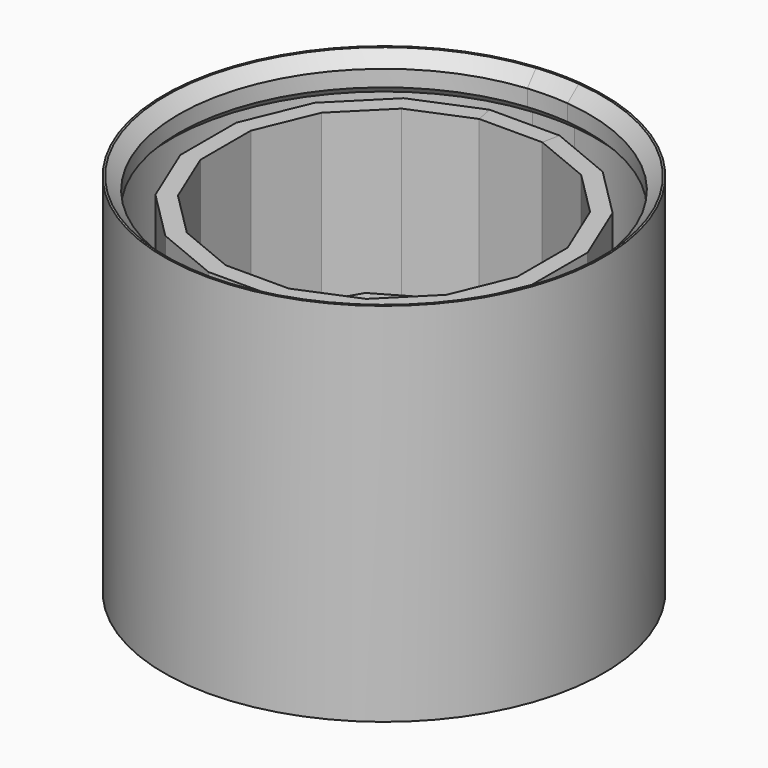
from build123d import *

# Parameters (mm, degrees)
F1_DEPTH  = 381
F2_DEPTH  = 381
F3_W      = 113.4495702038
F3_H      = 429.2523376644
F5_SIZE   = 13
F5_2_SIZE = 13
F7_DEPTH  = 355.6
F8_DEPTH  = 355.6
F10_DEPTH = 203.2
F11_DEPTH = 203.2


with BuildPart() as f1:
    # F0 (on Top) → F1 (new body)
    with BuildSketch(Plane.XY):
        Polygon((20.4468153369, 207.6), (23.2045746309, 235.6), (-23.2045746309, 235.6), (-20.4468153369, 207.6), align=None)
    extrude(amount=F1_DEPTH)


with BuildPart() as f2:
    # F0 (on Top) → F2 (new body, through all)
    with BuildSketch(Plane.XY):
        Polygon((235.6, 23.2045746309), (226.546024126, 68.7219851031), (208.7860115933, 111.5984482274), (183.0024697236, 150.1862455715), (150.1862455715, 183.0024697236), (111.5984482274, 208.7860115933), (68.7219851031, 226.546024126), (23.2045746309, 235.6), (20.4468153369, 207.6), (60.5546863641, 199.6220484234), (98.3354747538, 183.9727334753), (132.3372859959, 161.2534495528), (161.2534495528, 132.3372859959), (183.9727334753, 98.3354747538), (199.6220484234, 60.5546863641), (207.6, 20.4468153369), (207.6, -20.4468153369), (199.6220484234, -60.5546863641), (183.9727334753, -98.3354747538), (161.2534495528, -132.3372859959), (132.3372859959, -161.2534495528), (98.3354747538, -183.9727334753), (60.5546863641, -199.6220484234), (20.4468153369, -207.6), (-20.4468153369, -207.6), (-60.5546863641, -199.6220484234), (-98.3354747538, -183.9727334753), (-132.3372859959, -161.2534495528), (-161.2534495528, -132.3372859959), (-183.9727334753, -98.3354747538), (-199.6220484234, -60.5546863641), (-207.6, -20.4468153369), (-207.6, 20.4468153369), (-199.6220484234, 60.5546863641), (-183.9727334753, 98.3354747538), (-161.2534495528, 132.3372859959), (-132.3372859959, 161.2534495528), (-98.3354747538, 183.9727334753), (-60.5546863641, 199.6220484234), (-20.4468153369, 207.6), (-23.2045746309, 235.6), (-68.7219851031, 226.546024126), (-111.5984482274, 208.7860115933), (-150.1862455715, 183.0024697236), (-183.0024697236, 150.1862455715), (-208.7860115933, 111.5984482274), (-226.546024126, 68.7219851031), (-235.6, 23.2045746309), (-235.6, -23.2045746309), (-226.546024126, -68.7219851031), (-208.7860115933, -111.5984482274), (-183.0024697236, -150.1862455715), (-150.1862455715, -183.0024697236), (-111.5984482274, -208.7860115933), (-68.7219851031, -226.546024126), (-23.2045746309, -235.6), (23.2045746309, -235.6), (68.7219851031, -226.546024126), (111.5984482274, -208.7860115933), (150.1862455715, -183.0024697236), (183.0024697236, -150.1862455715), (208.7860115933, -111.5984482274), (226.546024126, -68.7219851031), (235.6, -23.2045746309), align=None)
    extrude(amount=F2_DEPTH)


with BuildPart() as f4_tool:
    # F3 (on Front) → F4 (revolve)
    with BuildSketch(Plane.XZ):
        with Locations((-285.3247851019, 178.768913353)):
            Rectangle(F3_W, F3_H)
        Polygon((-213.6, 30), (-213.6, -35.8572554791), (-190.5178142795, -35.8572554791), (-190.5178142795, 393.3950821852), (-213.6, 393.3950821852), (-213.6, 351), (-221.6, 343), (-221.6, 38), align=None)
    revolve(axis=Axis((0, 0, 198.5659504), (0, 0, 1)))


with BuildPart() as f1_1:
    add(f1.part)

    # F4: cut by f4_tool
    add(f4_tool.part, mode=Mode.SUBTRACT)

    # F5#2
    f5_2_edges = [f1_1.edges().sort_by_distance(p)[0] for p in [
        (0, 213.6, 381),
        (0, 213.6, 0),
    ]]
    chamfer(f5_2_edges, length=F5_2_SIZE)


with BuildPart() as f2_1:
    add(f2.part)

    # F4: cut by f4_tool
    add(f4_tool.part, mode=Mode.SUBTRACT)

    # F5
    f5_edges = [f2_1.edges().sort_by_distance(p)[0] for p in [
        (0, -213.6, 381),
        (0, -213.6, 0),
    ]]
    chamfer(f5_edges, length=F5_SIZE)


with BuildPart() as f7:
    # F6 (on Top) → F7 (new body)
    with BuildSketch(Plane.XY):
        Polygon((32.7807581442, 164.8), (36.361180757, 182.8), (-36.361180757, 182.8), (-32.7807581442, 164.8), align=None)
    extrude(amount=F7_DEPTH)


with BuildPart() as f8:
    # F6 (on Top) → F8 (new body, through all)
    with BuildSketch(Plane.XY):
        Polygon((182.8, 36.361180757), (154.9703570861, 103.5478821157), (103.5478821157, 154.9703570861), (36.361180757, 182.8), (32.7807581442, 164.8), (93.3517011634, 139.7106939157), (139.7106939157, 93.3517011634), (164.8, 32.7807581442), (164.8, -32.7807581442), (139.7106939157, -93.3517011634), (93.3517011634, -139.7106939157), (32.7807581442, -164.8), (-32.7807581442, -164.8), (-93.3517011634, -139.7106939157), (-139.7106939157, -93.3517011634), (-164.8, -32.7807581442), (-164.8, 32.7807581442), (-139.7106939157, 93.3517011634), (-93.3517011634, 139.7106939157), (-32.7807581442, 164.8), (-36.361180757, 182.8), (-103.5478821157, 154.9703570861), (-154.9703570861, 103.5478821157), (-182.8, 36.361180757), (-182.8, -36.361180757), (-154.9703570861, -103.5478821157), (-103.5478821157, -154.9703570861), (-36.361180757, -182.8), (36.361180757, -182.8), (103.5478821157, -154.9703570861), (154.9703570861, -103.5478821157), (182.8, -36.361180757), align=None)
    extrude(amount=F8_DEPTH)


with BuildPart() as f10:
    # F9 (on Top) → F10 (new body)
    with BuildSketch(Plane.XY):
        Polygon((30.0103095523, 112), (35.3692934009, 132), (-35.3692934009, 132), (-30.0103095523, 112), align=None)
    extrude(amount=F10_DEPTH)


with BuildPart() as f11:
    # F9 (on Top) → F11 (new body, through all)
    with BuildSketch(Plane.XY):
        Polygon((132, -35.3692934009), (132, 35.3692934009), (96.6307065991, 96.6307065991), (35.3692934009, 132), (30.0103095523, 112), (81.9896904477, 81.9896904477), (112, 30.0103095523), (112, -30.0103095523), (81.9896904477, -81.9896904477), (30.0103095523, -112), (-30.0103095523, -112), (-81.9896904477, -81.9896904477), (-112, -30.0103095523), (-112, 30.0103095523), (-81.9896904477, 81.9896904477), (-30.0103095523, 112), (-35.3692934009, 132), (-96.6307065991, 96.6307065991), (-132, 35.3692934009), (-132, -35.3692934009), (-96.6307065991, -96.6307065991), (-35.3692934009, -132), (35.3692934009, -132), (96.6307065991, -96.6307065991), align=None)
    extrude(amount=F11_DEPTH)


solid = Compound([f1_1.part, f2_1.part, f7.part, f8.part, f10.part, f11.part])
